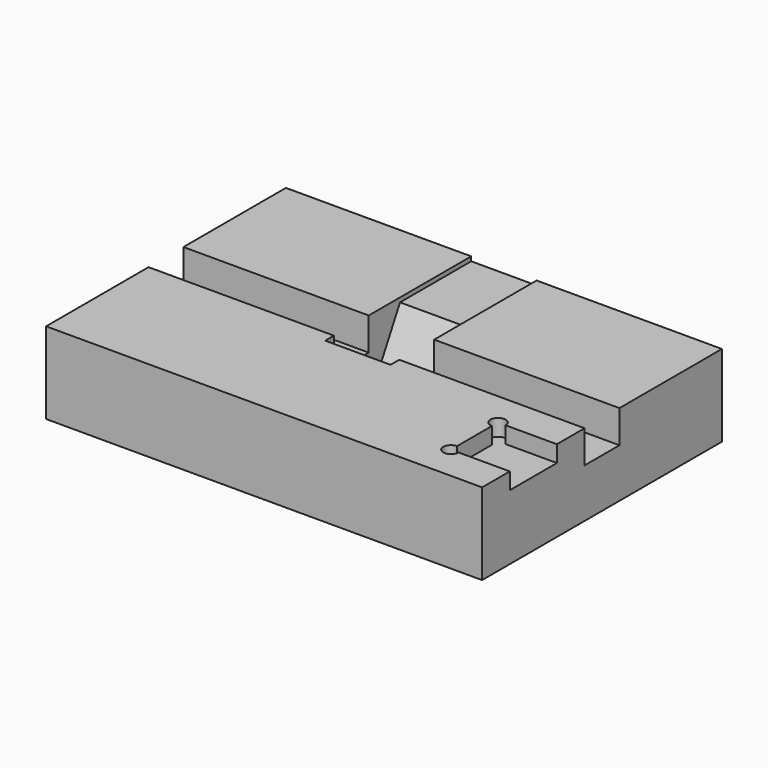
from build123d import *

# Parameters (mm, degrees)
F0_W     = 200
F0_H     = 137.5
F1_DEPTH = 37.45
F2_W     = 200
F2_H     = 20
F3_DEPTH = 15
F4_W     = 30
F4_H     = 5
F5_DEPTH = 35
F7_DEPTH = 15
F9_DEPTH = 7.6


with BuildPart() as f1:
    # F0 (on Top) → F1 (new body)
    with BuildSketch(Plane.XY):
        Rectangle(F0_W, F0_H)
    extrude(amount=F1_DEPTH)

    # F2 (on face) → F3 (cut)
    with BuildSketch(Plane.XY.offset(37.45)):
        Rectangle(F2_W, F2_H)
    extrude(amount=-F3_DEPTH, mode=Mode.SUBTRACT)

    # F4 (on face) → F5 (cut)
    with BuildSketch(Plane.XY.offset(37.45)):
        Polygon((11.49270311, 10), (-11.49270311, 10), (-15, 10), (-15, -10), (15, -10), (15, 10), align=None)
        with Locations((0, -12.5)):
            Rectangle(F4_W, F4_H)
    extrude(amount=-F5_DEPTH, mode=Mode.SUBTRACT)

    # F6 (on Right) → F7 (cut, symmetric)
    with BuildSketch(Plane.YZ):
        Polygon((10, 37.45), (10, 2.45), (27.9449588614, 35.45), (29.0325321257, 37.45), align=None)
        Polygon((29.0325321257, 37.45), (27.9449588614, 35.45), (68.75, 35.45), (68.75, 37.45), align=None)
    extrude(amount=F7_DEPTH, both=True, mode=Mode.SUBTRACT)

    # F8 (on face) → F9 (cut)
    with BuildSketch(Plane.XY.offset(37.45)):
        with BuildLine():
            Line((76.5, -52.875), (100, -52.875))
            Line((100, -52.875), (100, -25.875))
            Line((100, -25.875), (76.5, -25.875))
            ThreePointArc((76.5, -25.875), (75.4748737342, -28.3498737342), (73, -29.375))
            Line((73, -29.375), (73, -49.375))
            ThreePointArc((73, -49.375), (75.4748737342, -50.4001262658), (76.5, -52.875))
        make_face()
        with BuildLine():
            ThreePointArc((73, -49.375), (70.5251262658, -55.3498737342), (76.5, -52.875))
            Line((76.5, -52.875), (73, -52.875))
            Line((73, -52.875), (73, -49.375))
        make_face()
        with BuildLine():
            Line((73, -52.875), (76.5, -52.875))
            ThreePointArc((76.5, -52.875), (75.4748737342, -50.4001262658), (73, -49.375))
            Line((73, -49.375), (73, -52.875))
        make_face()
        with BuildLine():
            ThreePointArc((73, -29.375), (75.4748737342, -28.3498737342), (76.5, -25.875))
            Line((76.5, -25.875), (73, -25.875))
            Line((73, -25.875), (73, -29.375))
        make_face()
        with BuildLine():
            Line((73, -25.875), (76.5, -25.875))
            ThreePointArc((76.5, -25.875), (70.5251262658, -23.4001262658), (73, -29.375))
            Line((73, -29.375), (73, -25.875))
        make_face()
    extrude(amount=-F9_DEPTH, mode=Mode.SUBTRACT)


solid = f1.part
